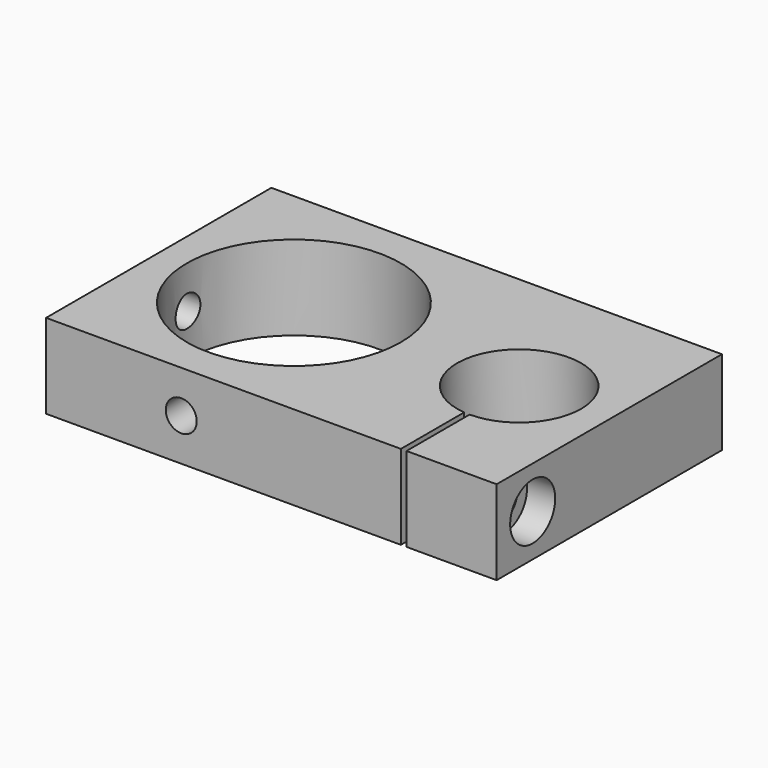
from build123d import *

# Parameters (mm, degrees)
F0_W           = 80
F0_H           = 50
F0_R           = 19
F0_R_2         = 11
F1_DEPTH       = 15
F2_W           = 1
F2_H           = 15
F3_DEPTH       = 25
F5_D           = 5.5
F5_DEPTH       = 18
F5_CBORE_D     = 10
F5_CBORE_DEPTH = 5
F5_TIP         = 1.6523667023
F7_D           = 5.5
F7_DEPTH       = 15
F7_TIP         = 1.6523667023
F9_D           = 5.5
F9_DEPTH       = 15
F9_TIP         = 1.6523667023
F11_D          = 5.5
F11_DEPTH      = 15
F11_TIP        = 1.6523667023
F13_D          = 5.5
F13_DEPTH      = 10
F13_TIP        = 1.6523667023


with BuildPart() as f1:
    # F0 (on Top) → F1 (new body)
    with BuildSketch(Plane.XY):
        Rectangle(F0_W, F0_H)
        with Locations((-16, 0)):
            Circle(F0_R, mode=Mode.SUBTRACT)
        with Locations((24, 0)):
            Circle(F0_R_2, mode=Mode.SUBTRACT)
    extrude(amount=F1_DEPTH)

    # F2 (on face) → F3 (cut)
    with BuildSketch(Plane.XY.offset(15)):
        with Locations((23.5, -17.5)):
            Rectangle(F2_W, F2_H)
    extrude(amount=-F3_DEPTH, mode=Mode.SUBTRACT)

    # F5
    with Locations(Plane.YZ.offset(40)):
        with Locations((-17, 7.5)):
            CounterBoreHole(F5_D / 2, F5_CBORE_D / 2, F5_CBORE_DEPTH, depth=F5_DEPTH)
            with Locations((0, 0, -(F5_DEPTH + F5_TIP / 2))):  # 118° drill point
                Cone(0, F5_D / 2, F5_TIP, mode=Mode.SUBTRACT)

    # F7
    with Locations(Plane.YZ.offset(23)):
        with Locations((-17, 7.5)):
            Hole(F7_D / 2, depth=F7_DEPTH)
            with Locations((0, 0, -(F7_DEPTH + F7_TIP / 2))):  # 118° drill point
                Cone(0, F7_D / 2, F7_TIP, mode=Mode.SUBTRACT)

    # F9
    with Locations(Plane.XZ.offset(25)):
        with Locations((-16, 7.5)):
            Hole(F9_D / 2, depth=F9_DEPTH)
            with Locations((0, 0, -(F9_DEPTH + F9_TIP / 2))):  # 118° drill point
                Cone(0, F9_D / 2, F9_TIP, mode=Mode.SUBTRACT)

    # F11
    with Locations(Plane(origin=(-40, 0, 0), x_dir=(0, -1, 0), z_dir=(-1, 0, 0))):
        with Locations((0, 7.5)):
            Hole(F11_D / 2, depth=F11_DEPTH)
            with Locations((0, 0, -(F11_DEPTH + F11_TIP / 2))):  # 118° drill point
                Cone(0, F11_D / 2, F11_TIP, mode=Mode.SUBTRACT)

    # F13
    with Locations(Plane(origin=(0, 25, 0), x_dir=(-1, 0, 0), z_dir=(0, 1, 0))):
        with Locations((-32, 7.5), (-12, 7.5)):
            Hole(F13_D / 2, depth=F13_DEPTH)
            with Locations((0, 0, -(F13_DEPTH + F13_TIP / 2))):  # 118° drill point
                Cone(0, F13_D / 2, F13_TIP, mode=Mode.SUBTRACT)


solid = f1.part
